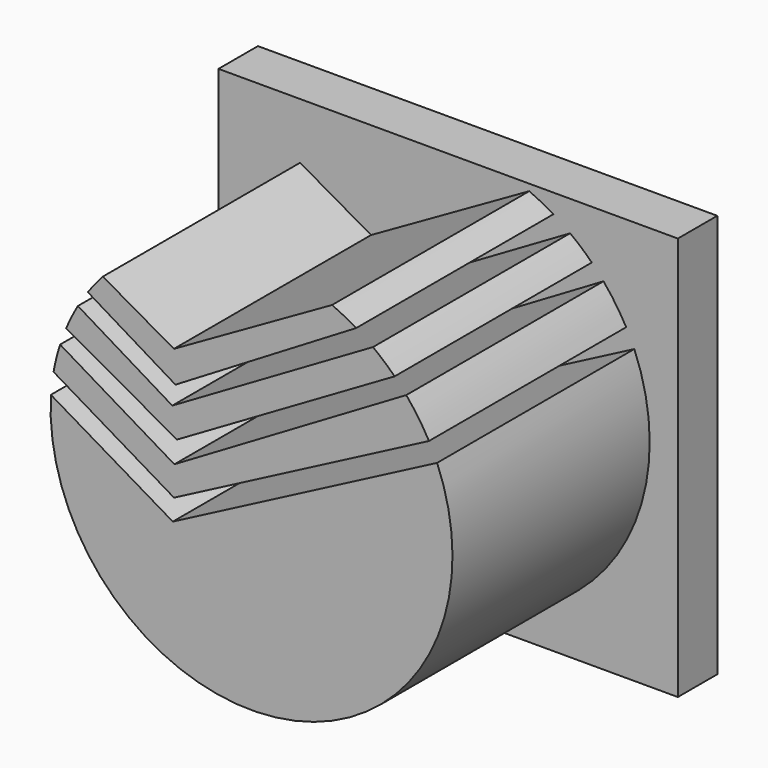
from build123d import *

# Parameters (mm, degrees)
F1_DEPTH = 25
F2_W     = 46.5890942141
F2_H     = 40.938699618
F3_DEPTH = 5


with BuildPart() as f1:
    # F0 (on Front) → F1 (new body)
    with BuildSketch(Plane.XZ):
        with BuildLine():
            Line((-16.1972109335, 0.9067526987), (-25.7715200782, 6.687763864))
            ThreePointArc((-25.7715200782, 6.687763864), (-26.4086461718, 5.5104664675), (-26.9674355795, 4.2940318342))
            Line((-26.9674355795, 4.2940318342), (-15.7174587356, -1.9717497783))
            Line((-15.7174587356, -1.9717497783), (6.3511966728, 10.8503689989))
            ThreePointArc((6.3511966728, 10.8503689989), (5.287091796, 11.839308975), (4.1555075794, 12.7502637629))
            Line((4.1555075794, 12.7502637629), (-16.1972109335, 0.9067526987))
        make_face()
    extrude(amount=F1_DEPTH)



with BuildPart() as f1b:
    # F0 (on Front) → F1, piece 2 (new body)
    with BuildSketch(Plane.XZ):
        with BuildLine():
            Line((-16.0378590226, 6.0243331827), (-23.2363295217, 10.1388221312))
            ThreePointArc((-23.2363295217, 10.1388221312), (-24.0260011213, 9.2177770372), (-24.759702406, 8.2515536028))
            Line((-24.759702406, 8.2515536028), (-15.8774183356, 2.8789895778))
            Line((-15.8774183356, 2.8789895778), (2.4531573144, 13.8953773195))
            ThreePointArc((2.4531573144, 13.8953773195), (1.2478332365, 14.5668583693), (0, 15.1555901816))
            Line((0, 15.1555901816), (-16.0378590226, 6.0243331827))
        make_face()
    extrude(amount=F1_DEPTH)


with BuildPart() as f1c:
    # F0 (on Front) → F1, piece 3 (new body)
    with BuildSketch(Plane.XZ):
        with BuildLine():
            Line((-15.9839864927, -4.2638920279), (-27.5745631276, 2.6574631844))
            ThreePointArc((-27.5745631276, 2.6574631844), (-27.9521231277, 1.3398909811), (-28.2406369461, 0))
            Line((-28.2406369461, 0), (-16.0219292804, -7.2582247378))
            Line((-16.0219292804, -7.2582247378), (9.8358221023, 6.2114192202))
            ThreePointArc((9.8358221023, 6.2114192202), (8.7691326541, 7.944430892), (7.5355910537, 9.5629274021))
            Line((7.5355910537, 9.5629274021), (-15.9839864927, -4.2638920279))
        make_face()
    extrude(amount=F1_DEPTH)


with BuildPart() as f1d:
    # F0 (on Front) → F1, piece 4 (new body)
    with BuildSketch(Plane.XZ):
        with BuildLine():
            Line((-16.143903892, -9.4345344262), (-28.5108022498, -2.1316674104))
            ThreePointArc((-28.5108022498, -2.1316674104), (-4.7449734761, -23.3835199279), (10.6615230255, 4.528766225))
            Line((10.6615230255, 4.528766225), (-16.143903892, -9.4345344262))
        make_face()
    extrude(amount=F1_DEPTH)


with BuildPart() as f1_1:
    add(f1.part)

    add(f1b.part)  # F3 merges F1b

    add(f1c.part)  # F3 merges F1c

    add(f1d.part)  # F3 merges F1d
    # F2 (on face) → F3 (join)
    with BuildSketch(Plane(origin=(0, 0, 0), x_dir=(-1, 0, 0), z_dir=(0, 1, 0))):
        with Locations((8.2179331221, -4.6391794458)):
            Rectangle(F2_W, F2_H)
        with BuildLine():
            Line((-10.6615230255, 4.528766225), (16.143903892, -9.4345344262))
            Line((16.143903892, -9.4345344262), (28.5108022498, -2.1316674104))
            ThreePointArc((28.5108022498, -2.1316674104), (4.7449734761, -23.3835199279), (-10.6615230255, 4.528766225))
        make_face(mode=Mode.SUBTRACT)
        with BuildLine():
            Line((28.5108022498, -2.1316674104), (16.143903892, -9.4345344262))
            Line((16.143903892, -9.4345344262), (-10.6615230255, 4.528766225))
            ThreePointArc((-10.6615230255, 4.528766225), (4.7449734761, -23.3835199279), (28.5108022498, -2.1316674104))
        make_face()
    extrude(amount=F3_DEPTH)


solid = f1_1.part
